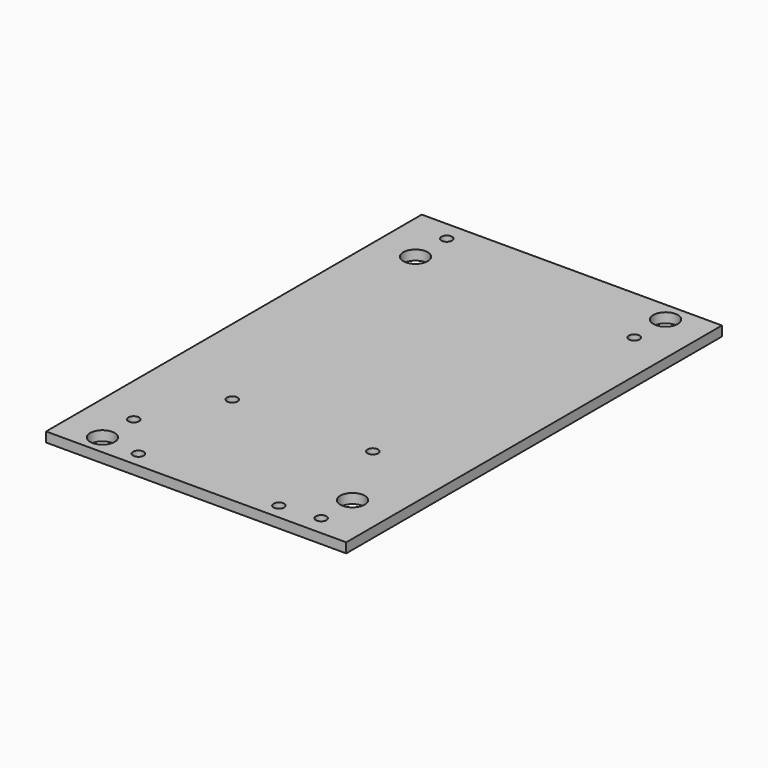
from build123d import *

# Parameters (mm, degrees)
F0_W     = 97.409
F0_H     = 152.4
F0_R     = 3.96875
F0_R_2   = 1.7272
F1_DEPTH = 3.175


with BuildPart() as f1:
    # F0 (on Top) → F1 (new body)
    with BuildSketch(Plane.XY):
        with Locations((48.7045, -76.2)):
            Rectangle(F0_W, F0_H)
        with Locations((13.208, -146.05)):
            Circle(F0_R, mode=Mode.SUBTRACT)
        with Locations((13.208, -133.35)):
            Circle(F0_R_2, mode=Mode.SUBTRACT)
        with Locations((25.908, -147.32)):
            Circle(F0_R_2, mode=Mode.SUBTRACT)
        with Locations((25.908, -109.22)):
            Circle(F0_R_2, mode=Mode.SUBTRACT)
        with Locations((71.501, -147.32)):
            Circle(F0_R_2, mode=Mode.SUBTRACT)
        with Locations((84.201, -146.05)):
            Circle(F0_R_2, mode=Mode.SUBTRACT)
        with Locations((84.201, -133.35)):
            Circle(F0_R, mode=Mode.SUBTRACT)
        with Locations((71.501, -109.22)):
            Circle(F0_R_2, mode=Mode.SUBTRACT)
        with Locations((13.208, -19.05)):
            Circle(F0_R, mode=Mode.SUBTRACT)
        with Locations((13.208, -6.35)):
            Circle(F0_R_2, mode=Mode.SUBTRACT)
        with Locations((84.201, -19.05)):
            Circle(F0_R_2, mode=Mode.SUBTRACT)
        with Locations((84.201, -6.35)):
            Circle(F0_R, mode=Mode.SUBTRACT)
    extrude(amount=F1_DEPTH)


solid = f1.part
